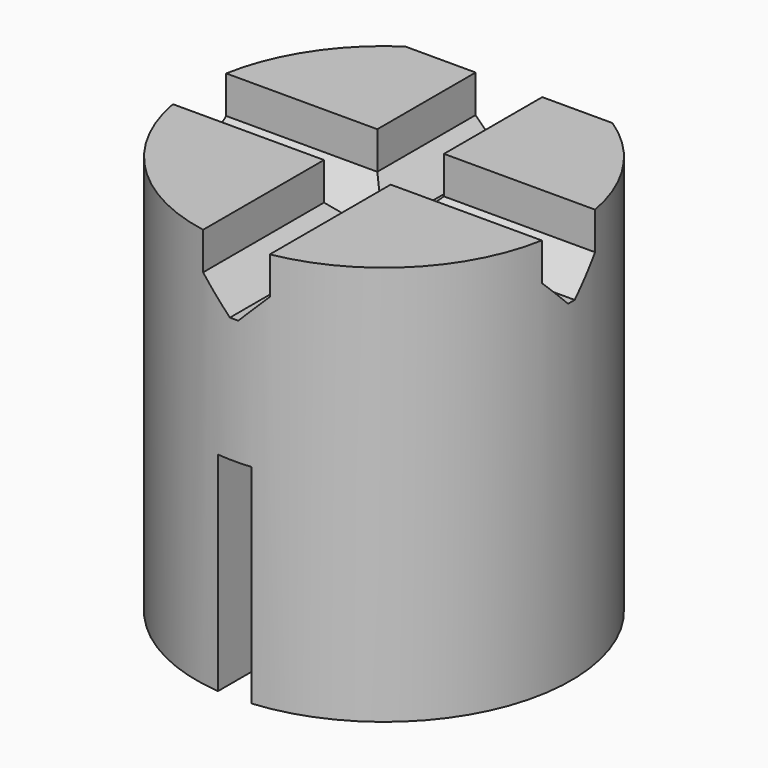
from build123d import *

# Parameters (mm, degrees)
PAD_DEPTH       = 1.6
PAD019_DEPTH    = 8
POCKET018_DEPTH = 1.6
CHAMFER_SIZE    = 0.7
SKETCH034_W     = 0.8
SKETCH034_H     = 9
POCKET019_DEPTH = 5


with BuildPart() as part:
    # Sketch031 → Pad (new body)
    with BuildSketch(Plane.XY.offset(3.15)):
        with BuildLine():
            ThreePointArc((11.492531, -46.434), (13.98, -54.684), (16.467469, -46.434))
            Line((11.492531, -46.434), (16.467469, -46.434))
        make_face()
        with BuildLine():
            ThreePointArc((11.903344, -47.684), (13.98, -53.434), (16.056656, -47.684))
            Line((11.903344, -47.684), (16.056656, -47.684))
        make_face(mode=Mode.SUBTRACT)
    extrude(amount=-PAD_DEPTH)

    # Sketch032 → Pad019 (join)
    with BuildSketch(Plane.XY.offset(3.15)):
        with BuildLine():
            ThreePointArc((11.492531, -46.434), (13.98, -54.684), (16.467469, -46.434))
            Line((11.492531, -46.434), (16.467469, -46.434))
        make_face()
    extrude(amount=PAD019_DEPTH)

    # Sketch033 → Pocket018 (cut)
    with BuildSketch(Plane.XY.offset(11.15)):
        Polygon((14.78, -54.684), (14.78, -50.984), (18.48, -50.984), (18.48, -49.384), (14.78, -49.384), (14.78, -45.684), (13.18, -45.684), (13.18, -49.384), (9.48, -49.384), (9.48, -50.984), (13.18, -50.984), (13.18, -54.684), align=None)
    extrude(amount=-POCKET018_DEPTH, mode=Mode.SUBTRACT)

    # Chamfer
    chamfer_edges = [part.edges().sort_by_distance(p)[0] for p in [
        (16.594159, -50.984, 9.55),
        (14.78, -47.909, 9.55),
        (13.18, -47.909, 9.55),
        (11.365841, -50.984, 9.55),
        (11.365841, -49.384, 9.55),
        (13.18, -52.798159, 9.55),
        (16.594159, -49.384, 9.55),
        (14.78, -52.798159, 9.55),
    ]]
    chamfer(chamfer_edges, length=CHAMFER_SIZE)

    # Sketch034 → Pocket019 (cut)
    with BuildSketch(Plane(origin=(0, 0, 1.55), x_dir=(1, 0, 0), z_dir=(0, 0, -1))):
        with Locations((13.98, 50.184)):
            Rectangle(SKETCH034_W, SKETCH034_H)
    extrude(amount=-POCKET019_DEPTH, mode=Mode.SUBTRACT)


solid = part.part
